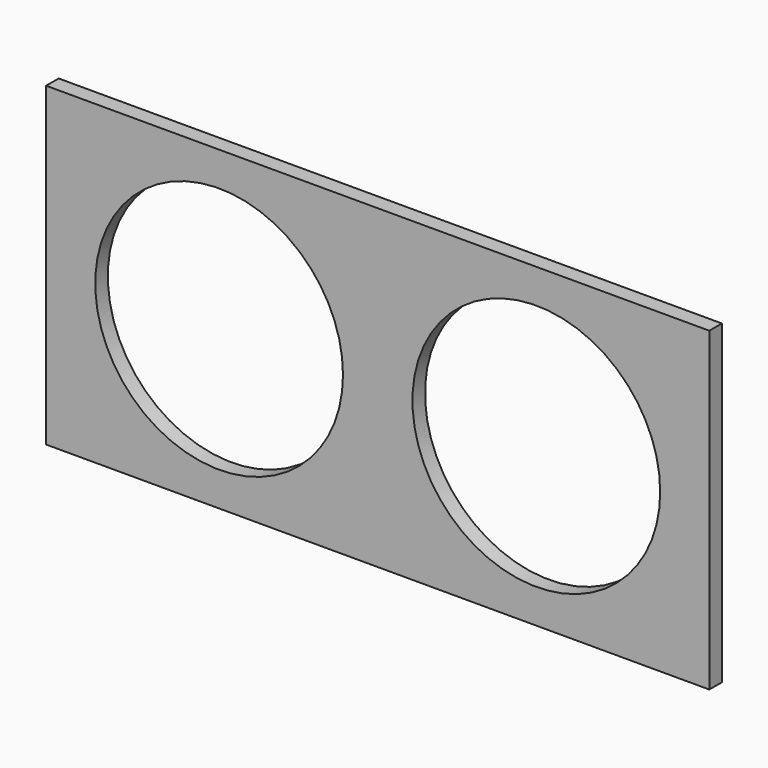
from build123d import *

# Parameters (mm, degrees)
F0_W     = 506
F0_H     = 241
F0_R     = 111
F0_R_2   = 94.5
F1_DEPTH = 12


with BuildPart() as f1:
    # F0 (on Front) → F1 (new body)
    with BuildSketch(Plane.XZ):
        Rectangle(F0_W, F0_H)
        with Locations((-121, 0)):
            Circle(F0_R, mode=Mode.SUBTRACT)
        with Locations((121, 0)):
            Circle(F0_R, mode=Mode.SUBTRACT)
        with Locations((-121, 0)):
            Circle(F0_R)
        with Locations((-121, 0)):
            Circle(F0_R_2, mode=Mode.SUBTRACT)
        with Locations((121, 0)):
            Circle(F0_R)
        with Locations((121, 0)):
            Circle(F0_R_2, mode=Mode.SUBTRACT)
    extrude(amount=F1_DEPTH)


solid = f1.part
